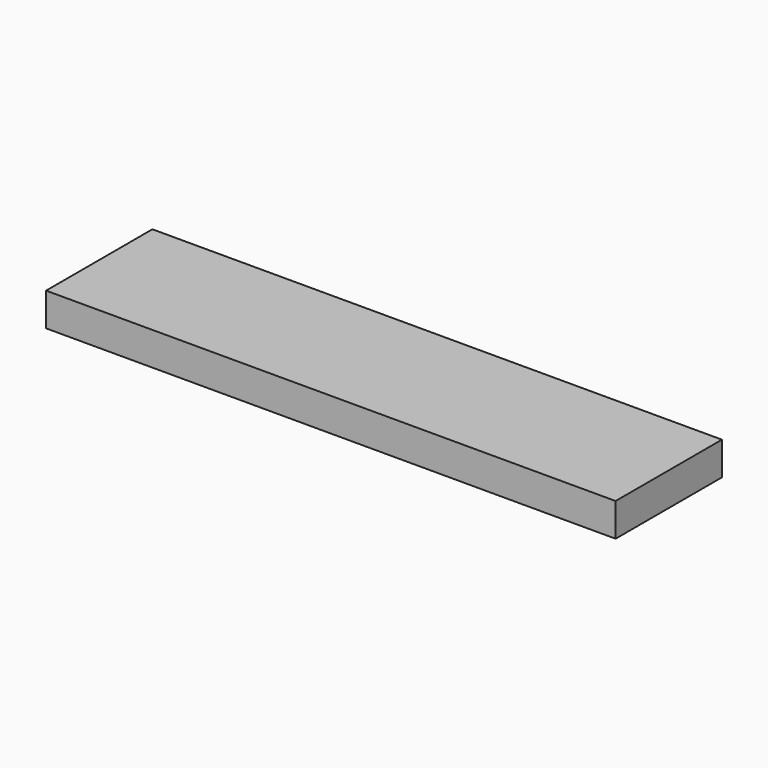
from build123d import *

# Parameters (mm, degrees)
SKETCH_W  = 140
SKETCH_H  = 35
PAD_DEPTH = 600


with BuildPart() as part:
    # Sketch → Pad (new body)
    with BuildSketch(Plane.YZ):
        with Locations((-70, 17.5)):
            Rectangle(SKETCH_W, SKETCH_H)
    extrude(amount=PAD_DEPTH)


solid = part.part
